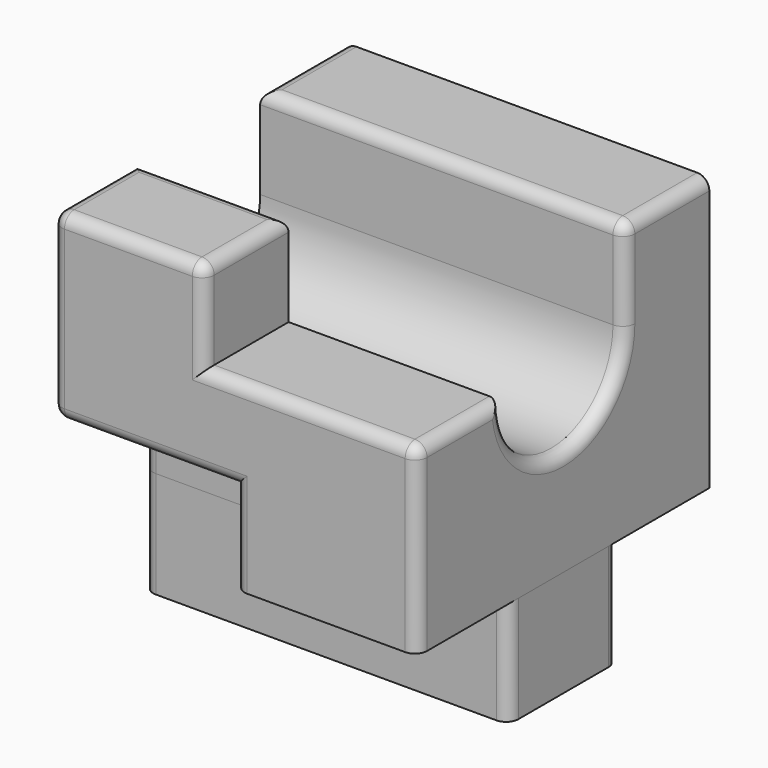
from build123d import *

# Parameters (mm, degrees)
F1_DEPTH         = 24
F3_D             = 2
F3_DEPTH         = 7
F3_TIP           = 0.600860619
F5_D             = 3.3
F5_DEPTH         = 8
F5_TIP           = 0.9914200214
F6_W             = 24
F6_H             = 9
F7_DEPTH         = 7
F9_D             = 2
F9_DEPTH         = 12
F9_CBORE_D       = 4.1
F9_CBORE_DEPTH   = 4
F9_TIP           = 0.600860619
F9_2_D           = 2
F9_2_DEPTH       = 12
F9_2_CBORE_D     = 4.1
F9_2_CBORE_DEPTH = 4
F9_2_TIP         = 0.600860619
F11_DEPTH        = 12
F12_W            = 6.92
F12_H            = 6
F13_DEPTH        = 14
F14_R            = 0.8
F14_2_R          = 0.8


with BuildPart() as f1:
    # F0 (on Right) → F1 (new body)
    with BuildSketch(Plane.YZ):
        with BuildLine():
            Line((0, 18), (0, 0))
            Line((0, 0), (24, 0))
            Line((24, 0), (24, 18))
            Line((24, 18), (17.08, 18))
            Line((17.08, 18), (17.08, 12))
            ThreePointArc((17.08, 12), (12, 6.92), (6.92, 12))
            Line((6.92, 12), (6.92, 18))
            Line((6.92, 18), (0, 18))
        make_face()
    extrude(amount=F1_DEPTH)

    # F3
    with Locations(Plane(origin=(0, 0, 0), x_dir=(0, -1, 0), z_dir=(-1, 0, 0))):
        with Locations((-20, 12), (-4, 12)):
            Hole(F3_D / 2, depth=F3_DEPTH)
            with Locations((0, 0, -(F3_DEPTH + F3_TIP / 2))):  # 118° drill point
                Cone(0, F3_D / 2, F3_TIP, mode=Mode.SUBTRACT)

    # F5
    with Locations(Plane(origin=(0, 24, 0), x_dir=(-1, 0, 0), z_dir=(0, 1, 0))):
        with Locations((-19, 3), (-5, 3)):
            Hole(F5_D / 2, depth=F5_DEPTH)
            with Locations((0, 0, -(F5_DEPTH + F5_TIP / 2))):  # 118° drill point
                Cone(0, F5_D / 2, F5_TIP, mode=Mode.SUBTRACT)

    # F9
    with Locations(Plane(origin=(0, 0, -7), x_dir=(1, 0, 0), z_dir=(0, 0, -1))):
        with Locations((5, -12), (12, -12), (19, -12)):
            CounterBoreHole(F9_D / 2, F9_CBORE_D / 2, F9_CBORE_DEPTH, depth=F9_DEPTH)
            with Locations((0, 0, -(F9_DEPTH + F9_TIP / 2))):  # 118° drill point
                Cone(0, F9_D / 2, F9_TIP, mode=Mode.SUBTRACT)

    # F10 (on face) → F11 (cut)
    with BuildSketch(Plane(origin=(0, 0, 0), x_dir=(0, -1, 0), z_dir=(-1, 0, 0))):
        with BuildLine():
            ThreePointArc((-4.5, 0), (-2.3786796564, 0.8786796564), (-1.5, 3))
            ThreePointArc((-1.5, 3), (-2.3786796564, 5.1213203436), (-4.5, 6))
            ThreePointArc((-4.5, 6), (-6.6213203436, 5.1213203436), (-7.5, 3))
            ThreePointArc((-7.5, 3), (-6.6213203436, 0.8786796564), (-4.5, 0))
        make_face()
        with BuildLine():
            ThreePointArc((-4.5, 6), (-2.3786796564, 5.1213203436), (-1.5, 3))
            ThreePointArc((-1.5, 3), (-2.3786796564, 0.8786796564), (-4.5, 0))
            Line((-4.5, 0), (0, 0))
            Line((0, 0), (0, 6))
            Line((0, 6), (-4.5, 6))
        make_face()
        with BuildLine():
            Line((-7.5, 0), (-4.5, 0))
            ThreePointArc((-4.5, 0), (-6.6213203436, 0.8786796564), (-7.5, 3))
            Line((-7.5, 3), (-7.5, 0))
        make_face()
    extrude(amount=-F11_DEPTH, mode=Mode.SUBTRACT)

    # F12 (on face) → F13 (cut)
    with BuildSketch(Plane.YZ.offset(24)):
        with Locations((3.46, 15)):
            Rectangle(F12_W, F12_H)
    extrude(amount=-F13_DEPTH, mode=Mode.SUBTRACT)

    # F14
    f14_edges = [f1.edges().sort_by_distance(p)[0] for p in [
        (0, 0, 12),
        (0, 2.25, 6),
        (6, 0, 6),
        (12, 0, 3),
        (24, 0, 6),
        (17, 0, 12),
        (24, 3.46, 12),
        (10, 0, 15),
        (24, 12, 6.92),
        (5, 0, 18),
        (0, 3.46, 18),
        (5, 6.92, 18),
        (10, 3.46, 18),
        (12, 17.08, 18),
        (0, 20.54, 18),
        (24, 20.54, 18),
    ]]
    fillet(f14_edges, radius=F14_R)


with BuildPart() as f7:
    # F6 (on face) → F7 (new body)
    with BuildSketch(Plane(origin=(0, 0, 0), x_dir=(1, 0, 0), z_dir=(0, 0, -1))):
        with Locations((12, -12)):
            Rectangle(F6_W, F6_H)
    extrude(amount=F7_DEPTH)

    # F9#2
    with Locations(Plane(origin=(0, 0, -7), x_dir=(1, 0, 0), z_dir=(0, 0, -1))):
        with Locations((5, -12), (12, -12), (19, -12)):
            CounterBoreHole(F9_2_D / 2, F9_2_CBORE_D / 2, F9_2_CBORE_DEPTH, depth=F9_2_DEPTH)
            with Locations((0, 0, -(F9_2_DEPTH + F9_2_TIP / 2))):  # 118° drill point
                Cone(0, F9_2_D / 2, F9_2_TIP, mode=Mode.SUBTRACT)

    # F14#2
    f14_2_edges = [f7.edges().sort_by_distance(p)[0] for p in [
        (0, 7.5, -3.5),
        (0, 16.5, -3.5),
        (24, 16.5, -3.5),
        (24, 7.5, -3.5),
    ]]
    fillet(f14_2_edges, radius=F14_2_R)


solid = Compound([f1.part, f7.part])
